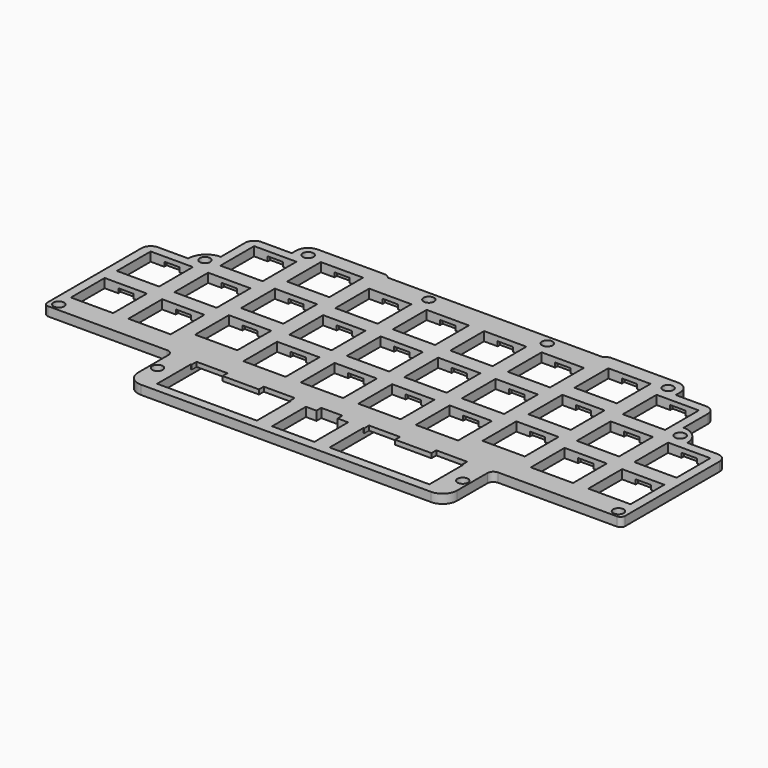
from build123d import *

# Parameters (mm, degrees)
PAD005_DEPTH       = 3
SKETCH032_W        = 14
SKETCH032_H        = 14
POCKET016_DEPTH    = 3.001
SKETCH034_W        = 7
SKETCH034_H        = 16
POCKET017_DEPTH    = 5
SKETCH036_R        = 1.75
POCKET018_DEPTH    = 3.001
SHAPEBINDER012_W   = 16
SHAPEBINDER012_H   = 5
SHAPEBINDER012_W_2 = 22
SHAPEBINDER012_H_2 = 33.05
POCKET022_DEPTH    = 1.5


with BuildPart() as part:
    # Sketch035 → Pad005 (new body)
    with BuildSketch(Plane.XY):
        with BuildLine():
            ThreePointArc((-59.625, 77.7225), (-62.453427, 76.550927), (-63.625, 73.7225))
            Line((-63.625, 73.7225), (-63.625, 71.9125))
            Line((-73.675, 71.9125), (-63.625, 71.9125))
            ThreePointArc((-73.675, 71.9125), (-75.79632, 71.03382), (-76.675, 68.9125))
            Line((-76.675, 58.8625), (-76.675, 68.9125))
            ThreePointArc((-76.675, 58.8625), (-80.917641, 57.105141), (-82.675, 52.8625))
            Line((-92.725, 52.8625), (-82.675, 52.8625))
            ThreePointArc((-92.725, 52.8625), (-94.84632, 51.98382), (-95.725, 49.8625))
            Line((-95.725, 49.8625), (-95.725, 10.8125))
            ThreePointArc((-95.725, 10.8125), (-95.28566, 9.75184), (-94.225, 9.3125))
            Line((-94.225, 9.3125), (-91.225, 9.3125))
            Line((-91.225, 9.3125), (-54.875, 9.3125))
            ThreePointArc((-52.875, 7.3125), (-53.460786, 8.726714), (-54.875, 9.3125))
            Line((-52.875, 7.3125), (-52.875, -5.2))
            ThreePointArc((-52.875, -5.2), (-51.469113, -8.594113), (-48.075, -10))
            Line((-48.075, -10), (48.075, -10))
            ThreePointArc((48.075, -10), (51.469113, -8.594113), (52.875, -5.2))
            Line((52.875, -5.2), (52.875, 7.3125))
            ThreePointArc((54.875, 9.3125), (53.460786, 8.726714), (52.875, 7.3125))
            Line((94.225, 9.3125), (54.875, 9.3125))
            ThreePointArc((94.225, 9.3125), (95.28566, 9.75184), (95.725, 10.8125))
            Line((95.725, 10.8125), (95.725, 49.8625))
            ThreePointArc((95.725, 49.8625), (94.84632, 51.98382), (92.725, 52.8625))
            Line((92.725, 52.8625), (82.675, 52.8625))
            ThreePointArc((82.675, 52.8625), (80.917641, 57.105141), (76.675, 58.8625))
            Line((76.675, 58.8625), (76.675, 68.9125))
            ThreePointArc((76.675, 68.9125), (75.79632, 71.03382), (73.675, 71.9125))
            Line((73.675, 71.9125), (63.625, 71.9125))
            Line((63.625, 71.9125), (63.625, 73.7225))
            ThreePointArc((63.625, 73.7225), (62.453427, 76.550927), (59.625, 77.7225))
            Line((37.625, 77.7225), (59.625, 77.7225))
            ThreePointArc((37.625, 77.7225), (36.506966, 77.458568), (35.625, 76.7225))
            Line((21.125, 76.7225), (35.625, 76.7225))
            Line((-21.125, 76.7225), (21.125, 76.7225))
            Line((-21.125, 76.7225), (-35.625, 76.7225))
            ThreePointArc((-35.625, 76.7225), (-36.506966, 77.458568), (-37.625, 77.7225))
            Line((-59.625, 77.7225), (-37.625, 77.7225))
        make_face()
    extrude(amount=PAD005_DEPTH)

    # Sketch032 → Pocket016 (cut, through all)
    with BuildSketch(Plane.XY):
        with Locations((-85.725, 42.8625)):
            Rectangle(SKETCH032_W, SKETCH032_H)
        with Locations((-85.725, 23.8125)):
            Rectangle(SKETCH032_W, SKETCH032_H)
        with Locations((-66.675, 23.8125)):
            Rectangle(SKETCH032_W, SKETCH032_H)
        with Locations((-66.675, 42.8625)):
            Rectangle(SKETCH032_W, SKETCH032_H)
        with Locations((-66.675, 61.9125)):
            Rectangle(SKETCH032_W, SKETCH032_H)
        with Locations((-47.625, 65.7225)):
            Rectangle(SKETCH032_W, SKETCH032_H)
        with Locations((-47.625, 46.6725)):
            Rectangle(SKETCH032_W, SKETCH032_H)
        with Locations((-47.625, 27.6225)):
            Rectangle(SKETCH032_W, SKETCH032_H)
        with Locations((-28.575, 23.8125)):
            Rectangle(SKETCH032_W, SKETCH032_H)
        with Locations((-28.575, 42.8625)):
            Rectangle(SKETCH032_W, SKETCH032_H)
        with Locations((-28.575, 61.9125)):
            Rectangle(SKETCH032_W, SKETCH032_H)
        with Locations((-9.525, 61.9125)):
            Rectangle(SKETCH032_W, SKETCH032_H)
        with Locations((9.525, 61.9125)):
            Rectangle(SKETCH032_W, SKETCH032_H)
        with Locations((28.575, 61.9125)):
            Rectangle(SKETCH032_W, SKETCH032_H)
        with Locations((47.625, 65.7225)):
            Rectangle(SKETCH032_W, SKETCH032_H)
        with Locations((66.675, 61.9125)):
            Rectangle(SKETCH032_W, SKETCH032_H)
        with Locations((-9.525, 42.8625)):
            Rectangle(SKETCH032_W, SKETCH032_H)
        with Locations((-9.525, 23.8125)):
            Rectangle(SKETCH032_W, SKETCH032_H)
        with Locations((9.525, 42.8625)):
            Rectangle(SKETCH032_W, SKETCH032_H)
        with Locations((28.575, 42.8625)):
            Rectangle(SKETCH032_W, SKETCH032_H)
        with Locations((9.525, 23.8125)):
            Rectangle(SKETCH032_W, SKETCH032_H)
        with Locations((28.575, 23.8125)):
            Rectangle(SKETCH032_W, SKETCH032_H)
        with Locations((47.625, 46.6725)):
            Rectangle(SKETCH032_W, SKETCH032_H)
        with Locations((66.675, 42.8625)):
            Rectangle(SKETCH032_W, SKETCH032_H)
        with Locations((85.725, 42.8625)):
            Rectangle(SKETCH032_W, SKETCH032_H)
        with Locations((47.625, 27.6225)):
            Rectangle(SKETCH032_W, SKETCH032_H)
        with Locations((66.675, 23.8125)):
            Rectangle(SKETCH032_W, SKETCH032_H)
        with Locations((85.725, 23.8125)):
            Rectangle(SKETCH032_W, SKETCH032_H)
        Polygon((-45.1, 7), (-45.1, -7), (-12.05, -7), (-12.05, 7), (-12.325, 7), (-12.325, 9), (-22.55, 9), (-22.55, 7), (-34.6, 7), (-34.6, 9), (-44.825, 9), (-44.825, 7), align=None)
        Polygon((-7, 7), (-7, -7), (7, -7), (7, 7), (3.5, 7), (3.5, 9), (-3.5, 9), (-3.5, 7), align=None)
        Polygon((45.1, -7), (45.1, 7), (44.825, 7), (44.825, 9), (34.6, 9), (34.6, 7), (22.55, 7), (22.55, 9), (12.325, 9), (12.325, 7), (12.05, 7), (12.05, -7), align=None)
    extrude(amount=POCKET016_DEPTH, mode=Mode.SUBTRACT)

    # Sketch034 → Pocket017 (cut)
    with BuildSketch(Plane.XY):
        Polygon((-22.55, 9), (-15.55, 9), (-12.325, 9), (-12.325, -7), (-15.55, -7), (-22.55, -7), align=None)
        Polygon((12.325, 9), (20.325, 9), (22.55, 9), (22.55, -7), (20.325, -7), (12.325, -7), align=None)
        Polygon((36.825, 9), (44.825, 9), (44.825, -7), (36.825, -7), (34.6, -7), (34.6, 9), align=None)
        Polygon((-36.825, 9), (-44.825, 9), (-44.825, -7), (-36.825, -7), (-34.6, -7), (-34.6, 9), align=None)
        with Locations((0, 1)):
            Rectangle(SKETCH034_W, SKETCH034_H)
    extrude(amount=POCKET017_DEPTH, mode=Mode.SUBTRACT)

    # Sketch036 → Pocket018 (cut, through all)
    with BuildSketch(Plane.XY):
        with Locations((-92.725, 11.8125)):
            Circle(SKETCH036_R)
        with Locations((-50.575, 0)):
            Circle(SKETCH036_R)
        with Locations((50.575, 0)):
            Circle(SKETCH036_R)
        with Locations((92.725, 11.8125)):
            Circle(SKETCH036_R)
        with Locations((78.725, 54.8625)):
            Circle(SKETCH036_R)
        with Locations((59.625, 73.7225)):
            Circle(SKETCH036_R)
        with Locations((19.625, 73.7225)):
            Circle(SKETCH036_R)
        with Locations((-19.625, 73.7225)):
            Circle(SKETCH036_R)
        with Locations((-59.625, 73.7225)):
            Circle(SKETCH036_R)
        with Locations((-78.725, 54.8625)):
            Circle(SKETCH036_R)
    extrude(amount=POCKET018_DEPTH, mode=Mode.SUBTRACT)

    # ShapeBinder012 → Pocket022 (cut)
    with BuildSketch(Plane(origin=(0, 32.86125, 0), x_dir=(0, 1, 0), z_dir=(0, 0, 1))):
        with Locations((10.00125, 85.725)):
            Rectangle(SHAPEBINDER012_W, SHAPEBINDER012_H)
        with Locations((-9.04875, 85.725)):
            Rectangle(SHAPEBINDER012_W, SHAPEBINDER012_H)
        with Locations((-9.04875, 66.675)):
            Rectangle(SHAPEBINDER012_W, SHAPEBINDER012_H)
        with Locations((10.00125, 66.675)):
            Rectangle(SHAPEBINDER012_W, SHAPEBINDER012_H)
        with Locations((29.05125, 66.675)):
            Rectangle(SHAPEBINDER012_W, SHAPEBINDER012_H)
        with Locations((32.86125, 47.625)):
            Rectangle(SHAPEBINDER012_W, SHAPEBINDER012_H)
        with Locations((13.81125, 47.625)):
            Rectangle(SHAPEBINDER012_W, SHAPEBINDER012_H)
        with Locations((-5.23875, 47.625)):
            Rectangle(SHAPEBINDER012_W, SHAPEBINDER012_H)
        with Locations((-9.04875, 28.575)):
            Rectangle(SHAPEBINDER012_W, SHAPEBINDER012_H)
        with Locations((10.00125, 28.575)):
            Rectangle(SHAPEBINDER012_W, SHAPEBINDER012_H)
        with Locations((29.05125, 28.575)):
            Rectangle(SHAPEBINDER012_W, SHAPEBINDER012_H)
        with Locations((29.05125, 9.525)):
            Rectangle(SHAPEBINDER012_W, SHAPEBINDER012_H)
        with Locations((29.05125, -9.525)):
            Rectangle(SHAPEBINDER012_W, SHAPEBINDER012_H)
        with Locations((29.05125, -28.575)):
            Rectangle(SHAPEBINDER012_W, SHAPEBINDER012_H)
        with Locations((32.86125, -47.625)):
            Rectangle(SHAPEBINDER012_W, SHAPEBINDER012_H)
        with Locations((29.05125, -66.675)):
            Rectangle(SHAPEBINDER012_W, SHAPEBINDER012_H)
        with Locations((10.00125, 9.525)):
            Rectangle(SHAPEBINDER012_W, SHAPEBINDER012_H)
        with Locations((-9.04875, 9.525)):
            Rectangle(SHAPEBINDER012_W, SHAPEBINDER012_H)
        with Locations((10.00125, -9.525)):
            Rectangle(SHAPEBINDER012_W, SHAPEBINDER012_H)
        with Locations((10.00125, -28.575)):
            Rectangle(SHAPEBINDER012_W, SHAPEBINDER012_H)
        with Locations((-9.04875, -9.525)):
            Rectangle(SHAPEBINDER012_W, SHAPEBINDER012_H)
        with Locations((-9.04875, -28.575)):
            Rectangle(SHAPEBINDER012_W, SHAPEBINDER012_H)
        with Locations((13.81125, -47.625)):
            Rectangle(SHAPEBINDER012_W, SHAPEBINDER012_H)
        with Locations((10.00125, -66.675)):
            Rectangle(SHAPEBINDER012_W, SHAPEBINDER012_H)
        with Locations((10.00125, -85.725)):
            Rectangle(SHAPEBINDER012_W, SHAPEBINDER012_H)
        with Locations((-5.23875, -47.625)):
            Rectangle(SHAPEBINDER012_W, SHAPEBINDER012_H)
        with Locations((-9.04875, -66.675)):
            Rectangle(SHAPEBINDER012_W, SHAPEBINDER012_H)
        with Locations((-9.04875, -85.725)):
            Rectangle(SHAPEBINDER012_W, SHAPEBINDER012_H)
        with Locations((-32.86125, 0)):
            Rectangle(SHAPEBINDER012_W, SHAPEBINDER012_H)
        with Locations((-29.86125, 28.575)):
            Rectangle(SHAPEBINDER012_W_2, SHAPEBINDER012_H_2)
        with Locations((-29.86125, -28.575)):
            Rectangle(SHAPEBINDER012_W_2, SHAPEBINDER012_H_2)
    extrude(amount=POCKET022_DEPTH, mode=Mode.SUBTRACT)


solid = part.part
